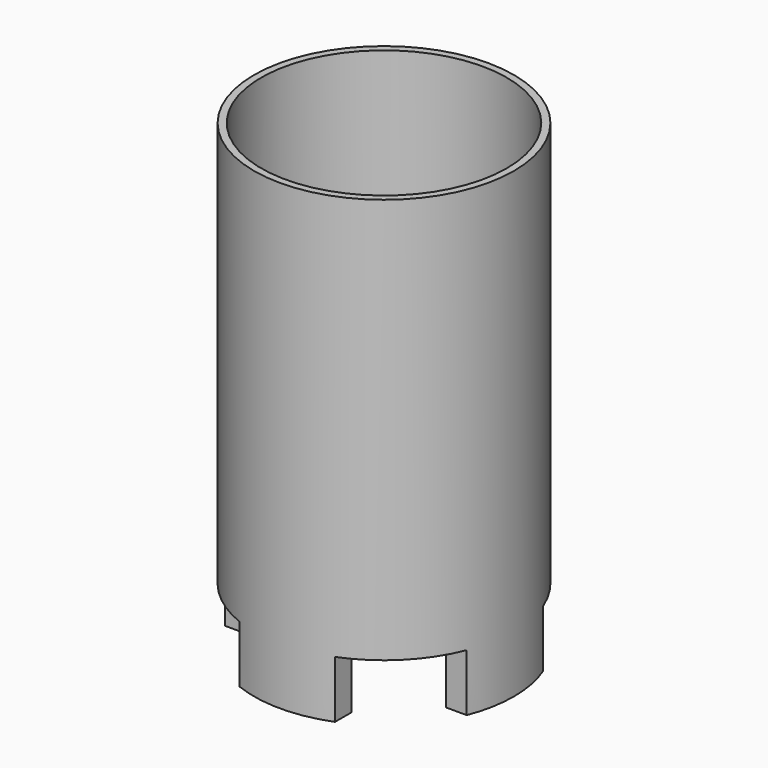
from build123d import *

# Parameters (mm, degrees)
F0_R     = 27.25
F0_R_2   = 25.75
F1_DEPTH = 85
F2_W     = 20
F2_H     = 17.491485
F2_W_2   = 14.608384
F2_H_2   = 20
F3_DEPTH = 12
F4_R     = 27.25
F5_DEPTH = 100


with BuildPart() as f1:
    # F0 (on Top) → F1 (new body)
    with BuildSketch(Plane.XY):
        Circle(F0_R)
        Circle(F0_R_2, mode=Mode.SUBTRACT)
    extrude(amount=F1_DEPTH)

    # F2 (on Top) → F3 (join)
    with BuildSketch(Plane.XY):
        with Locations((0, -29.745742)):
            Rectangle(F2_W, F2_H)
        with Locations((-28.304192, 0)):
            Rectangle(F2_W_2, F2_H_2)
        with Locations((0, 29.745742)):
            Rectangle(F2_W, F2_H)
        with Locations((28.304192, 0)):
            Rectangle(F2_W_2, F2_H_2)
    extrude(amount=-F3_DEPTH)

    # F4 (on face) → F5 (intersect, symmetric)
    with BuildSketch(Plane(origin=(0, 0, 0), x_dir=(1, 0, 0), z_dir=(0, 0, -1))):
        Circle(F4_R)
    extrude(amount=F5_DEPTH, both=True, mode=Mode.INTERSECT)


solid = f1.part
